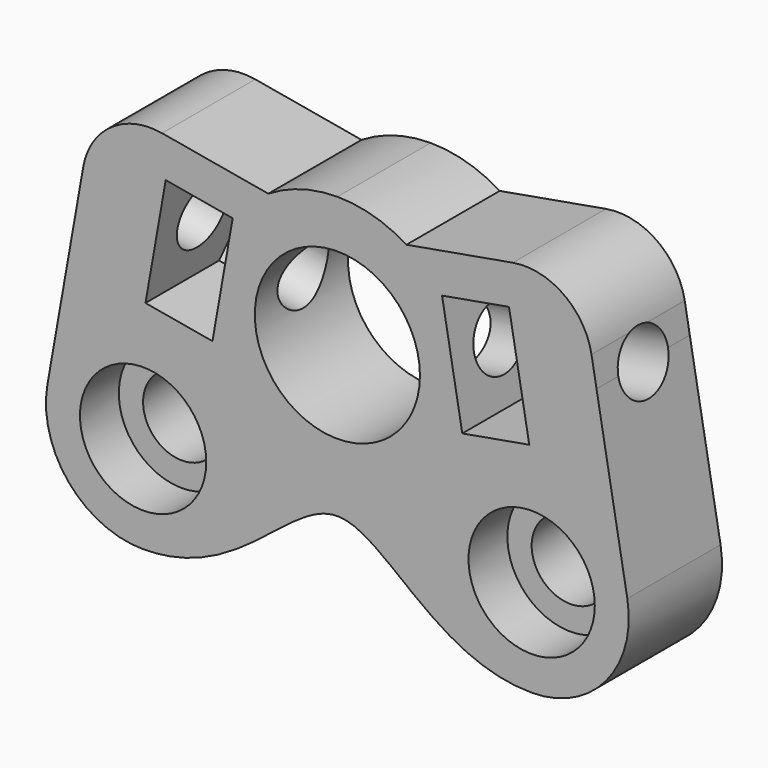
from build123d import *

# Parameters (mm, degrees)
F0_R      = 2
F0_R_2    = 4.25
F1_DEPTH  = 6
F4_R      = 1.6
F5_DEPTH  = 15
F8_DEPTH  = 3.5
F11_R     = 3.25
F12_DEPTH = 2.5


with BuildPart() as f1:
    # F0 (on Front) → F1 (new body)
    with BuildSketch(Plane.XZ):
        with BuildLine():
            add(Edge.make_bspline(
                [(10, -12.5), (5, -12.5), (0, -3), (-5, -12.5), (-10, -12.5)],
                knots=[0, 0, 0, 0, 0.5, 1, 1, 1, 1], degree=3))
            ThreePointArc((10, -12.5), (13.8302222156, -10.7139380484), (14.9240387651, -6.6317591117))
            Line((14.9240387651, -6.6317591117), (13.3399263315, 2.3521889329))
            Line((13.3399263315, 2.3521889329), (13.079454065, 3.8294005624))
            ThreePointArc((13.079454065, 3.8294005624), (11.6401444567, 6.0886640956), (9.0248583076, 6.6684590761))
            Line((9.0248583076, 6.6684590761), (3.5557645771, 5.7041102914))
            ThreePointArc((3.5557645771, 5.7041102914), (1.8492439019, 6.4622467406), (0, 6.7216319406))
            ThreePointArc((0, 6.7216319406), (-1.8492439019, 6.4622467406), (-3.5557645771, 5.7041102914))
            Line((-3.5557645771, 5.7041102914), (-9.0248583076, 6.6684590761))
            ThreePointArc((-9.0248583076, 6.6684590761), (-11.6401444567, 6.0886640956), (-13.079454065, 3.8294005624))
            Line((-13.079454065, 3.8294005624), (-13.3399263315, 2.3521889329))
            Line((-13.3399263315, 2.3521889329), (-14.9240387651, -6.6317591117))
            ThreePointArc((-14.9240387651, -6.6317591117), (-13.8302222156, -10.7139380484), (-10, -12.5))
        make_face()
        with Locations((-10, -7.5)):
            Circle(F0_R, mode=Mode.SUBTRACT)
        with Locations((10, -7.5)):
            Circle(F0_R, mode=Mode.SUBTRACT)
        Circle(F0_R_2, mode=Mode.SUBTRACT)
    extrude(amount=-F1_DEPTH)


with BuildPart() as f5:
    # F4 (on line) → F5 (new body)
    with BuildSketch(Plane(origin=(0, 0, 0), x_dir=(0, 1, 0), z_dir=(0.984807753, 0, 0.1736481777))):
        with Locations((3, 0)):
            Circle(F4_R)
    extrude(amount=F5_DEPTH)


with BuildPart() as f8:
    # F7 (on offset) → F8 (new body)
    with BuildSketch(Plane(origin=(5.9088465181, 0, 1.041889066), x_dir=(0, 1, 0), z_dir=(0.984807753, 0, 0.1736481777))):
        Polygon((1.2679491924, -3), (4.7320508076, -3), (6.4641016151, 0), (4.7320508076, 3), (1.2679491924, 3), (-12.080499812, 3), (-12.080499812, -3), align=None)
    extrude(amount=F8_DEPTH)


with BuildPart() as f9_1:
    # F9: instance of F5
    add(f5.part.mirror(Plane.YZ))


with BuildPart() as f9_2:
    # F9: instance of F8
    add(f8.part.mirror(Plane.YZ))


with BuildPart() as f1_1:
    add(f1.part)

    # F10: cut F8, F5, F9_1, F9_2
    add(f8.part, mode=Mode.SUBTRACT)
    add(f5.part, mode=Mode.SUBTRACT)
    add(f9_1.part, mode=Mode.SUBTRACT)
    add(f9_2.part, mode=Mode.SUBTRACT)

    # F11 (on face) → F12 (cut)
    with BuildSketch(Plane.XZ):
        with Locations((-10, -7.5)):
            Circle(F11_R)
        with Locations((10, -7.5)):
            Circle(F11_R)
    extrude(amount=-F12_DEPTH, mode=Mode.SUBTRACT)


solid = f1_1.part
